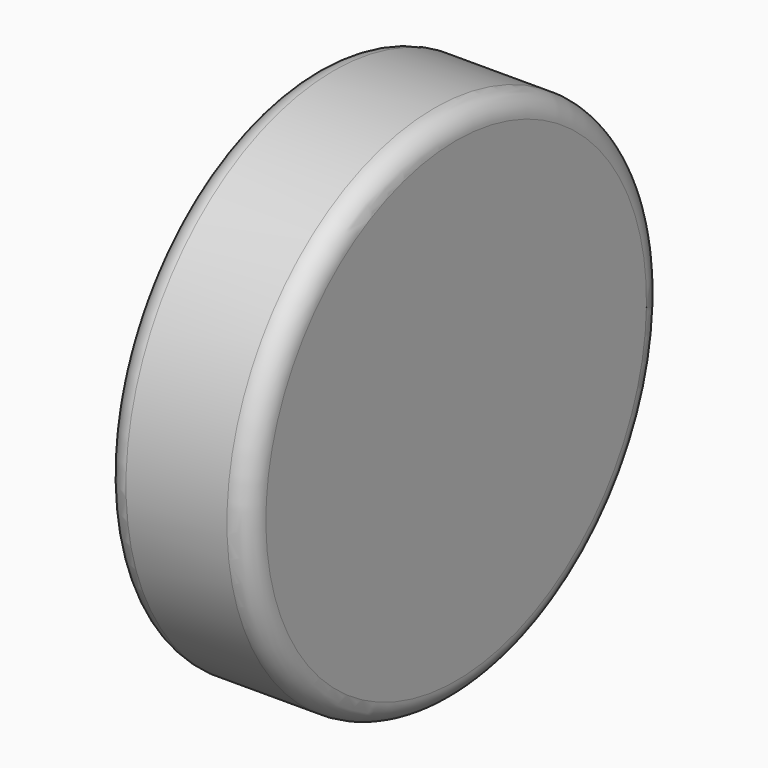
from build123d import *

# Parameters (mm, degrees)
F2_R     = 3
F3_DEPTH = 0.889


with BuildPart() as f1:
    # F0 (on Front) → F1 (revolve)
    with BuildSketch(Plane.XZ):
        with BuildLine():
            Line((0, 20.955), (0, 19.05))
            Line((0, 19.05), (8.89, 19.05))
            Line((8.89, 19.05), (8.89, 0))
            Line((8.89, 0), (12.7, 0))
            Line((12.7, 0), (12.7, 20.955))
            ThreePointArc((12.7, 20.955), (12.142038, 22.302038), (10.795, 22.86))
            Line((10.795, 22.86), (1.905, 22.86))
            ThreePointArc((1.905, 22.86), (0.557962, 22.302038), (0, 20.955))
        make_face()
    revolve(axis=Axis((2.430882, 0, 0), (1, 0, 0)))

    # F2 (on face) → F3 (cut)
    with BuildSketch(Plane(origin=(8.89, 0, 0), x_dir=(0, -1, 0), z_dir=(-1, 0, 0))):
        Circle(F2_R)
    extrude(amount=-F3_DEPTH, mode=Mode.SUBTRACT)


solid = f1.part
